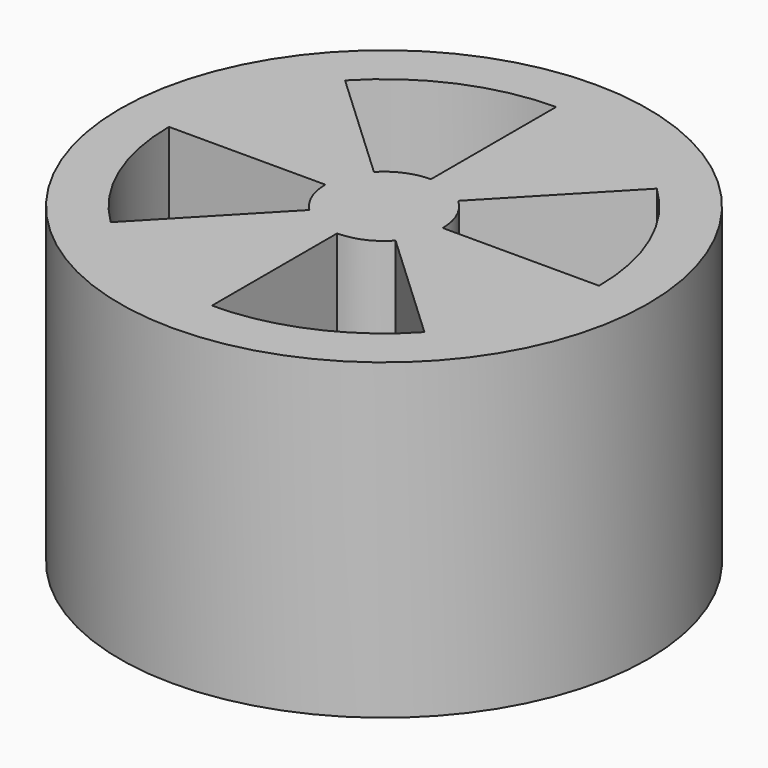
from build123d import *

# Parameters (mm, degrees)
F0_R     = 6.75
F1_DEPTH = 8
F3_DEPTH = 8.001


with BuildPart() as f1:
    # F0 (on Top) → F1 (new body)
    with BuildSketch(Plane.XY):
        Circle(F0_R)
    extrude(amount=F1_DEPTH)

    # F2 (on face) → F3 (cut, through all)
    with BuildSketch(Plane(origin=(0, 0, 0), x_dir=(1, 0, 0), z_dir=(0, 0, -1))):
        with BuildLine():
            Line((1.106261084, 1.0130085952), (4.0290932015, 3.7438493524))
            ThreePointArc((4.0290932015, 3.7438493524), (2.1975928378, 5.0418831521), (0, 5.5))
            Line((0, 5.5), (0, 1.5))
            ThreePointArc((0, 1.5), (0.6043538315, 1.3728643219), (1.106261084, 1.0130085952))
        make_face()
        with BuildLine():
            Line((-1.0654173052, 1.055881606), (-3.8317758444, 3.9455663571))
            ThreePointArc((-3.8317758444, 3.9455663571), (-5.0658053231, 2.1418721783), (-5.5, 0))
            Line((-5.5, 0), (-1.5, 0))
            ThreePointArc((-1.5, 0), (-1.3871059725, 0.5709089429), (-1.0654173052, 1.055881606))
        make_face()
        with BuildLine():
            ThreePointArc((-4.0085548388, -3.7658316617), (-2.1837955331, -5.0478745101), (0, -5.5))
            Line((0, -5.5), (0, -1.5))
            ThreePointArc((0, -1.5), (-0.5905563661, -1.3788557497), (-1.0857227213, -1.0349909046))
            Line((-1.0857227213, -1.0349909046), (-4.0085548388, -3.7658316617))
        make_face()
        with BuildLine():
            ThreePointArc((3.7747972956, -4.0001131705), (5.0503160855, -2.1781431167), (5.5, 0))
            Line((5.5, 0), (1.5, 0))
            ThreePointArc((1.5, 0), (1.3716154954, -0.6071827836), (1.0084387564, -1.1104284194))
            Line((1.0084387564, -1.1104284194), (3.7747972956, -4.0001131705))
        make_face()
    extrude(amount=-F3_DEPTH, mode=Mode.SUBTRACT)


solid = f1.part
